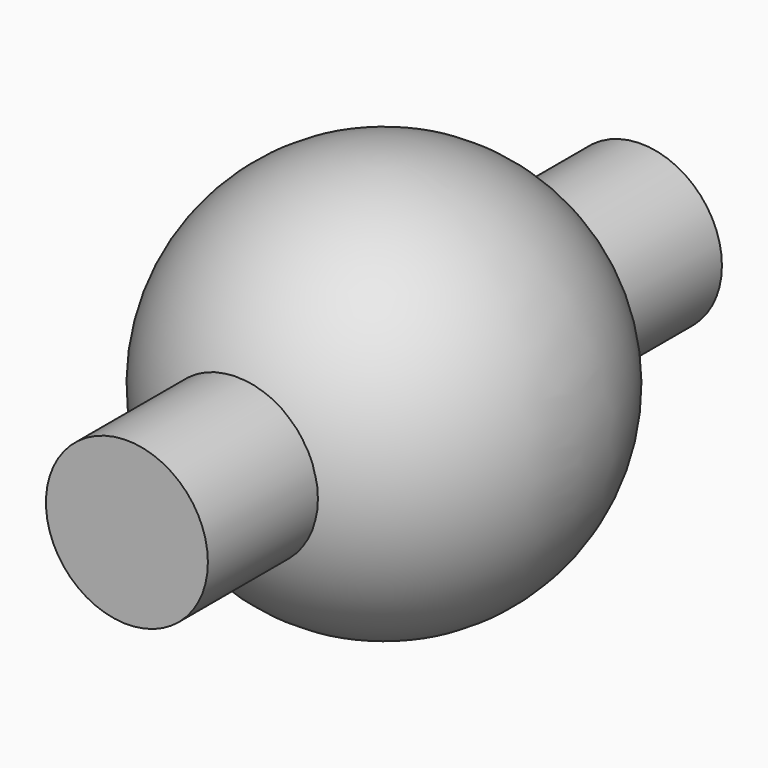
from build123d import *

# Parameters (mm, degrees)
F2_R     = 25.206587
F3_DEPTH = 100


with BuildPart() as f1:
    # F0 (on Front) → F1 (revolve)
    with BuildSketch(Plane.XZ):
        with BuildLine():
            Line((0, 0), (0, -62.599986))
            ThreePointArc((0, -62.599986), (62.599986, 0), (0, 62.599986))
            Line((0, 62.599986), (0, 0))
        make_face()
    revolve(axis=Axis((0, 0, 0), (0, 0, -1)))


with BuildPart() as f3:
    # F2 (on Front) → F3 (new body, symmetric)
    with BuildSketch(Plane.XZ):
        Circle(F2_R)
    extrude(amount=F3_DEPTH, both=True)


solid = Compound([f1.part, f3.part])
